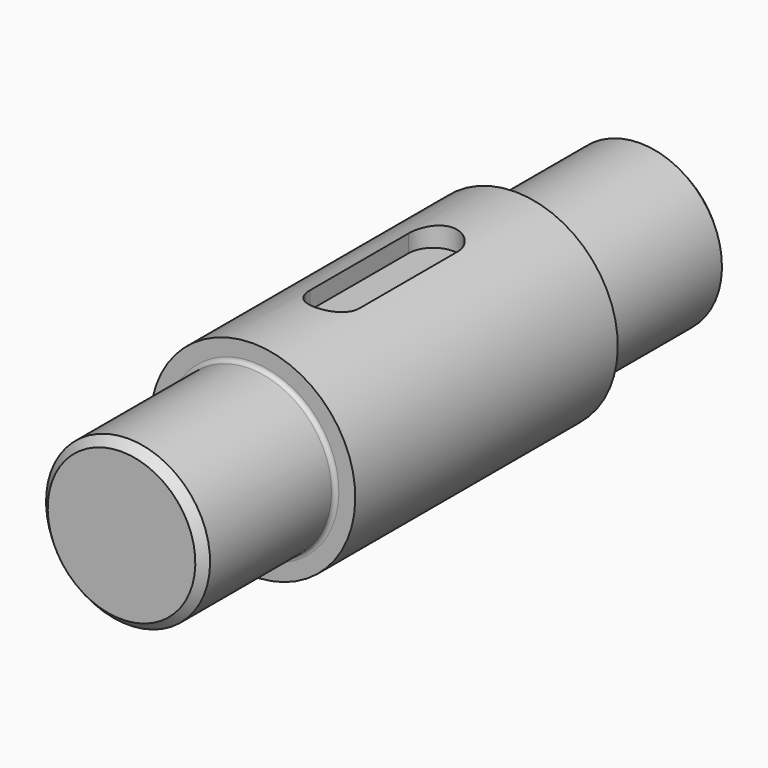
from build123d import *

# Parameters (mm, degrees)
F2_SIZE  = 2
F3_R     = 1
F4_R     = 1
F7_DEPTH = 5


with BuildPart() as f1:
    # F0 (on Right) → F1 (revolve)
    with BuildSketch(Plane.YZ):
        Polygon((0, 25), (-40, 25), (-40, 20), (-80, 20), (-80, 0), (80, 0), (80, 20), (40, 20), (40, 25), align=None)
    revolve(axis=Axis((0, 1.564302, 0), (0, 1, 0)))

    # F2
    f2_edges = [f1.edges().sort_by_distance(p)[0] for p in [
        (0, -80, -20),
        (0, 80, -20),
    ]]
    chamfer(f2_edges, length=F2_SIZE)

    # F3
    f3_edges = [f1.edges().sort_by_distance(p)[0] for p in [
        (0, -40, -20),
    ]]
    fillet(f3_edges, radius=F3_R)

    # F4
    f4_edges = [f1.edges().sort_by_distance(p)[0] for p in [
        (0, 40, -20),
    ]]
    fillet(f4_edges, radius=F4_R)

    # F6 (on offset) → F7 (cut)
    with BuildSketch(Plane.XY.offset(25)):
        with BuildLine():
            Line((-6, 15), (-6, 0))
            Line((-6, 0), (-6, -15))
            ThreePointArc((-6, -15), (0, -21), (6, -15))
            Line((6, -15), (6, 0))
            Line((6, 0), (6, 15))
            ThreePointArc((6, 15), (0, 21), (-6, 15))
        make_face()
    extrude(amount=-F7_DEPTH, mode=Mode.SUBTRACT)


solid = f1.part
